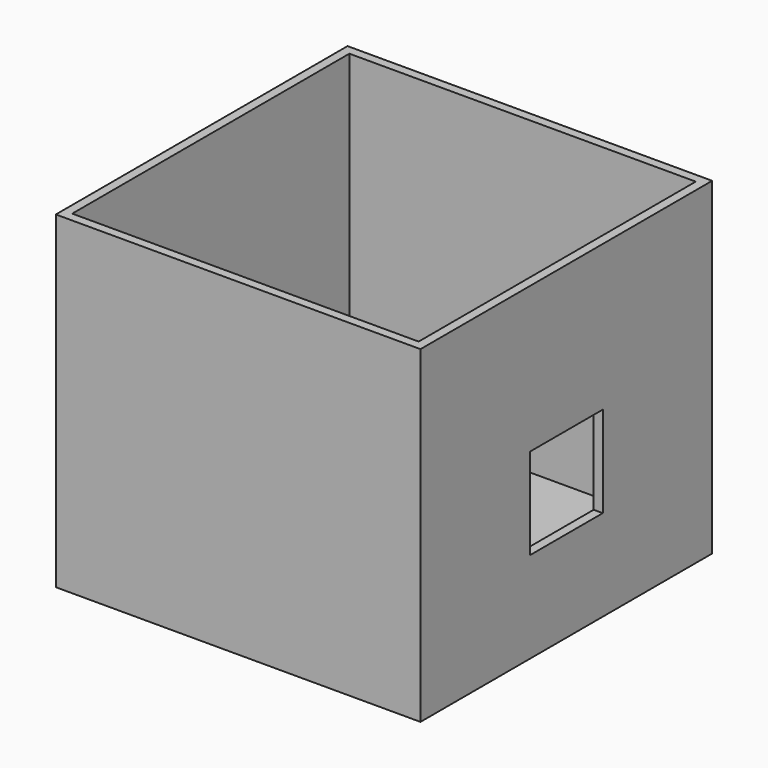
from build123d import *

# Parameters (mm, degrees)
F0_W      = 200
F0_H      = 200
F1_DEPTH  = 180
F2_W      = 190
F2_H      = 190
F3_DEPTH  = 170
F4_W      = 50
F4_H      = 50
F5_DEPTH  = 8
F6_W      = 80
F6_H      = 30
F7_DEPTH  = 30
F8_W      = 74
F8_H      = 24
F9_DEPTH  = 25
F10_W     = 91
F10_H     = 91
F11_DEPTH = 25
F12_R     = 7.5
F13_DEPTH = 25


with BuildPart() as f1:
    # F0 (on Top) → F1 (new body)
    with BuildSketch(Plane.XY):
        Rectangle(F0_W, F0_H)
    extrude(amount=F1_DEPTH)

    # F2 (on face) → F3 (cut)
    with BuildSketch(Plane.XY.offset(180)):
        Rectangle(F2_W, F2_H)
    extrude(amount=-F3_DEPTH, mode=Mode.SUBTRACT)

    # F4 (on face) → F5 (cut)
    with BuildSketch(Plane.YZ.offset(100)):
        with Locations((0, 75)):
            Rectangle(F4_W, F4_H)
    extrude(amount=-F5_DEPTH, mode=Mode.SUBTRACT)

    # F6 (on face) → F7 (join)
    with BuildSketch(Plane.XY.offset(10)):
        with Locations((40, -63.405036)):
            Rectangle(F6_W, F6_H)
    extrude(amount=F7_DEPTH)

    # F8 (on face) → F9 (cut)
    with BuildSketch(Plane.XY.offset(40)):
        with Locations((40, -63.405036)):
            Rectangle(F8_W, F8_H)
    extrude(amount=-F9_DEPTH, mode=Mode.SUBTRACT)

    # F10 (on Top) → F11 (cut)
    with BuildSketch(Plane.XY):
        with Locations((-35.5, 4.5)):
            Rectangle(F10_W, F10_H)
    extrude(amount=F11_DEPTH, mode=Mode.SUBTRACT)

    # F12 (on face) → F13 (cut)
    with BuildSketch(Plane.YZ.offset(-95)):
        with Locations((0, 39.5)):
            Circle(F12_R)
    extrude(amount=-F13_DEPTH, mode=Mode.SUBTRACT)


solid = f1.part
